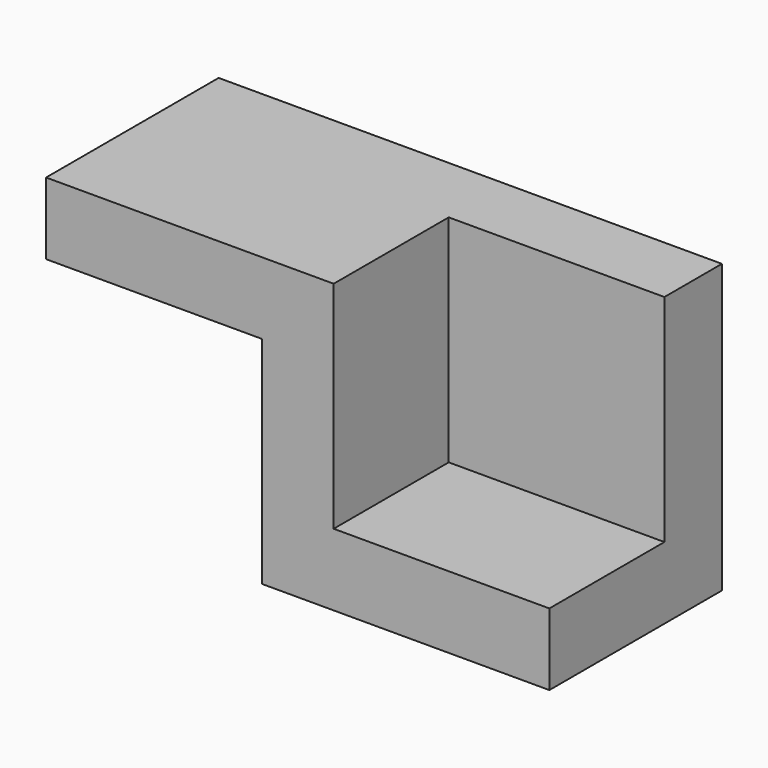
from build123d import *

# Parameters (mm, degrees)
F0_W     = 30
F0_H     = 20
F1_DEPTH = 10
F2_DEPTH = 40
F3_W     = 30
F3_H     = 10
F4_DEPTH = 30


with BuildPart() as f1:
    # F0 (on Top) → F1 (new body)
    with BuildSketch(Plane.XY):
        with Locations((15, 10)):
            Rectangle(F0_W, F0_H)
    extrude(amount=F1_DEPTH)

    # F0 (on Top) → F2 (join)
    with BuildSketch(Plane.XY):
        Polygon((-10, 0), (0, 0), (0, 20), (30, 20), (30, 30), (-10, 30), align=None)
    extrude(amount=F2_DEPTH)

    # F3 (on face) → F4 (join)
    with BuildSketch(Plane(origin=(-10, 0, 0), x_dir=(0, -1, 0), z_dir=(-1, 0, 0))):
        with Locations((-15, 35)):
            Rectangle(F3_W, F3_H)
    extrude(amount=F4_DEPTH)


solid = f1.part
